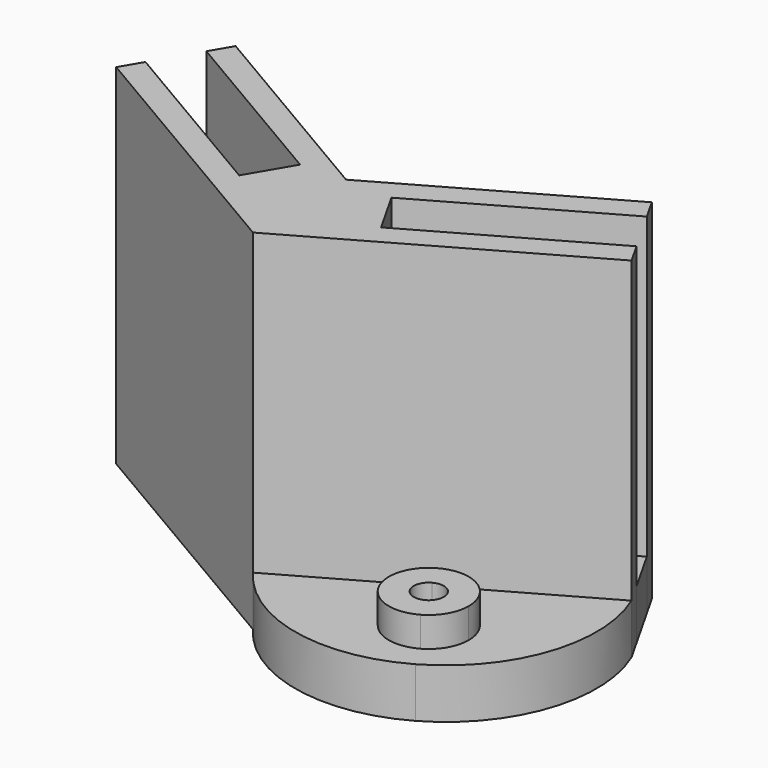
from build123d import *

# Parameters (mm, degrees)
F1_DEPTH = 35
F2_DEPTH = 5
F3_DEPTH = 5
F4_DEPTH = 8


with BuildPart() as f1:
    # F0 (on Top) → F1 (new body)
    with BuildSketch(Plane.XY):
        Polygon((-4.5421427263, -18.7091076313), (-7.1265365105, -23.1058005667), (-0.2120626165, -27.170156121), (7.0488793967, -23.0532723663), (4.5334285141, -18.6167752281), (22.1390458625, -8.6345608102), (20.9306429875, -6.5033023811), (-0.1440209293, -18.4524325843), (-21.0296031968, -6.1758033577), (-22.271125701, -8.28794016), align=None)
        Polygon((-24.8555194852, -12.6846330954), (-26.0970419893, -14.7967698977), (-0.2341423693, -29.9990862753), (12.8143786254, -22.6007013264), (25.8628996201, -15.2023163775), (24.6544967451, -13.0710579484), (7.0488793967, -23.0532723663), (-0.2120626165, -27.170156121), (-7.1265365105, -23.1058005667), align=None)
    extrude(amount=F1_DEPTH)

    # F0 (on Top) → F2 (join)
    with BuildSketch(Plane.XY):
        Polygon((-22.271125701, -8.28794016), (-24.8555194852, -12.6846330954), (-7.1265365105, -23.1058005667), (-4.5421427263, -18.7091076313), align=None)
        Polygon((7.0488793967, -23.0532723663), (24.6544967451, -13.0710579484), (22.1390458625, -8.6345608102), (4.5334285141, -18.6167752281), align=None)
    extrude(amount=F2_DEPTH)

    # F0 (on Top) → F3 (join)
    with BuildSketch(Plane.XY):
        with BuildLine():
            Line((12.8143786254, -22.6007013264), (-0.2341423693, -29.9990862753))
            ThreePointArc((-0.2341423693, -29.9990862753), (8.7789969459, -35.8134839164), (19.3797362449, -34.1800132069))
            Line((19.3797362449, -34.1800132069), (18.0699600882, -31.8699628652))
            ThreePointArc((18.0699600882, -31.8699628652), (12.6174518365, -30.3632599197), (14.1241547821, -24.9107516681))
            Line((14.1241547821, -24.9107516681), (12.8143786254, -22.6007013264))
        make_face()
        with BuildLine():
            Line((25.8628996201, -15.2023163775), (12.8143786254, -22.6007013264))
            Line((12.8143786254, -22.6007013264), (14.1241547821, -24.9107516681))
            ThreePointArc((14.1241547821, -24.9107516681), (18.1105605252, -24.9340868337), (20.0970574351, -28.3903572667))
            ThreePointArc((20.0970574351, -28.3903572667), (19.5533278681, -30.4038603568), (18.0699600882, -31.8699628652))
            Line((18.0699600882, -31.8699628652), (19.3797362449, -34.1800132069))
            ThreePointArc((19.3797362449, -34.1800132069), (26.2244652335, -25.9220724639), (25.8628996201, -15.2023163775))
        make_face()
    extrude(amount=F3_DEPTH)

    # F0 (on Top) → F4 (join)
    with BuildSketch(Plane.XY):
        with BuildLine():
            Line((15.3572189402, -27.0855051672), (14.1241547821, -24.9107516681))
            ThreePointArc((14.1241547821, -24.9107516681), (12.6174518365, -30.3632599197), (18.0699600882, -31.8699628652))
            Line((18.0699600882, -31.8699628652), (16.83689593, -29.6952093661))
            ThreePointArc((16.83689593, -29.6952093661), (14.7922053357, -29.1301957615), (15.3572189402, -27.0855051672))
        make_face()
        with BuildLine():
            ThreePointArc((20.0970574351, -28.3903572667), (18.1105605252, -24.9340868337), (14.1241547821, -24.9107516681))
            Line((14.1241547821, -24.9107516681), (15.3572189402, -27.0855051672))
            ThreePointArc((15.3572189402, -27.0855051672), (16.8521210939, -27.0942558543), (17.5970574351, -28.3903572667))
            ThreePointArc((17.5970574351, -28.3903572667), (17.3931588475, -29.1454209255), (16.83689593, -29.6952093661))
            Line((16.83689593, -29.6952093661), (18.0699600882, -31.8699628652))
            ThreePointArc((18.0699600882, -31.8699628652), (19.5533278681, -30.4038603568), (20.0970574351, -28.3903572667))
        make_face()
    extrude(amount=F4_DEPTH)


solid = f1.part
